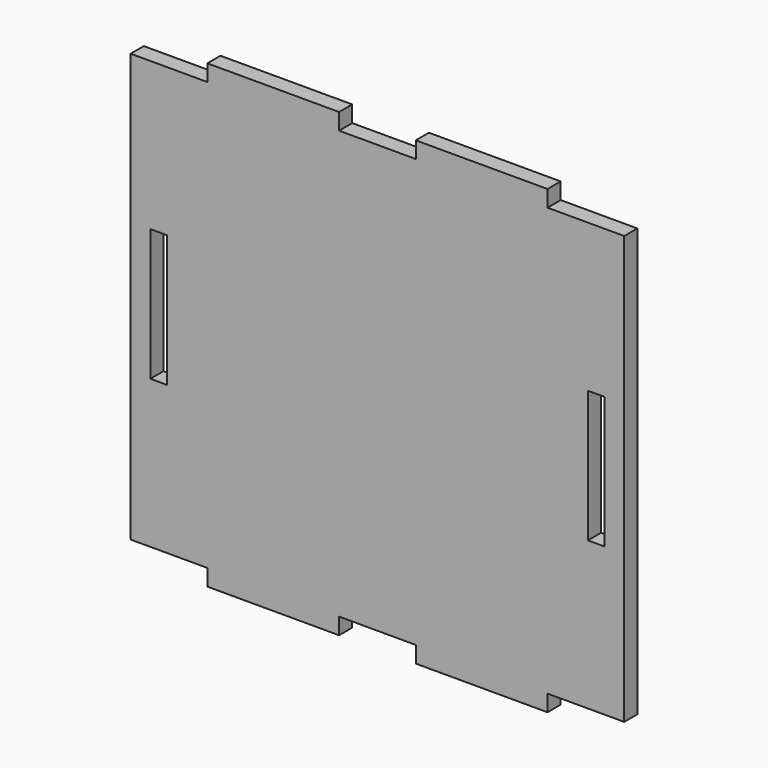
from build123d import *

# Parameters (mm, degrees)
F0_W     = 3.2004
F0_H     = 25.4254
F0_W_2   = 25.4254
F0_H_2   = 3.175
F1_DEPTH = 3.175


with BuildPart() as f1:
    # F0 (on Front) → F1 (new body)
    with BuildSketch(Plane.XZ):
        Polygon((-80.432293, 34.807234), (-95.230333, 34.807234), (-95.230333, -47.742766), (-80.432293, -47.742766), (-55.006893, -47.742766), (-40.206313, -47.742766), (-14.780913, -47.742766), (0.019667, -47.742766), (0.019667, 34.807234), (-14.780913, 34.807234), (-40.206313, 34.807234), (-55.006893, 34.807234), align=None)
        with Locations((-89.820133, -6.467766)):
            Rectangle(F0_W, F0_H, mode=Mode.SUBTRACT)
        with Locations((-5.390533, -6.467766)):
            Rectangle(F0_W, F0_H, mode=Mode.SUBTRACT)
        with Locations((-67.719593, 36.394734)):
            Rectangle(F0_W_2, F0_H_2)
        with Locations((-27.493613, 36.394734)):
            Rectangle(F0_W_2, F0_H_2)
        with Locations((-27.493613, -49.330266)):
            Rectangle(F0_W_2, F0_H_2)
        with Locations((-67.719593, -49.330266)):
            Rectangle(F0_W_2, F0_H_2)
    extrude(amount=F1_DEPTH)


solid = f1.part
